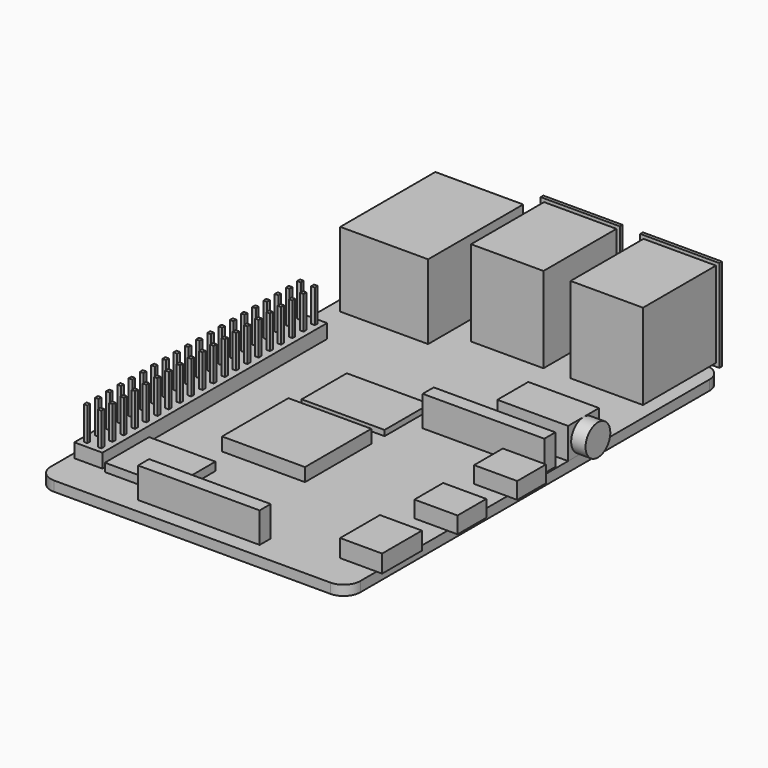
from build123d import *

# Parameters (mm, degrees)
CUBE_W         = 15
CUBE_H         = 15
CUBE_DEPTH     = 2.4
CUBE001_W      = 15
CUBE001_H      = 10.2
CUBE001_DEPTH  = 1
CUBE002_W      = 12
CUBE002_H      = 10
CUBE002_DEPTH  = 1.5
CUBE003_W      = 22
CUBE003_H      = 2.5
CUBE003_DEPTH  = 5.5
CUBE004_W      = 22
CUBE004_H      = 2.5
CUBE004_DEPTH  = 5.5
CUBE048_W      = 0.65
CUBE048_H      = 0.65
CUBE048_DEPTH  = 11.54
CUBE047_W      = 2.54
CUBE047_H      = 2.54
CUBE047_DEPTH  = 2.54
CUBE050_W      = 0.65
CUBE050_H      = 0.65
CUBE050_DEPTH  = 11.54
CUBE049_W      = 2.54
CUBE049_H      = 2.54
CUBE049_DEPTH  = 2.54
CUBE052_W      = 0.65
CUBE052_H      = 0.65
CUBE052_DEPTH  = 11.54
CUBE051_W      = 2.54
CUBE051_H      = 2.54
CUBE051_DEPTH  = 2.54
CUBE054_W      = 0.65
CUBE054_H      = 0.65
CUBE054_DEPTH  = 11.54
CUBE053_W      = 2.54
CUBE053_H      = 2.54
CUBE053_DEPTH  = 2.54
CUBE056_W      = 0.65
CUBE056_H      = 0.65
CUBE056_DEPTH  = 11.54
CUBE055_W      = 2.54
CUBE055_H      = 2.54
CUBE055_DEPTH  = 2.54
CUBE058_W      = 0.65
CUBE058_H      = 0.65
CUBE058_DEPTH  = 11.54
CUBE057_W      = 2.54
CUBE057_H      = 2.54
CUBE057_DEPTH  = 2.54
CUBE060_W      = 0.65
CUBE060_H      = 0.65
CUBE060_DEPTH  = 11.54
CUBE059_W      = 2.54
CUBE059_H      = 2.54
CUBE059_DEPTH  = 2.54
CUBE062_W      = 0.65
CUBE062_H      = 0.65
CUBE062_DEPTH  = 11.54
CUBE061_W      = 2.54
CUBE061_H      = 2.54
CUBE061_DEPTH  = 2.54
CUBE064_W      = 0.65
CUBE064_H      = 0.65
CUBE064_DEPTH  = 11.54
CUBE063_W      = 2.54
CUBE063_H      = 2.54
CUBE063_DEPTH  = 2.54
CUBE066_W      = 0.65
CUBE066_H      = 0.65
CUBE066_DEPTH  = 11.54
CUBE065_W      = 2.54
CUBE065_H      = 2.54
CUBE065_DEPTH  = 2.54
CUBE068_W      = 0.65
CUBE068_H      = 0.65
CUBE068_DEPTH  = 11.54
CUBE067_W      = 2.54
CUBE067_H      = 2.54
CUBE067_DEPTH  = 2.54
CUBE070_W      = 0.65
CUBE070_H      = 0.65
CUBE070_DEPTH  = 11.54
CUBE069_W      = 2.54
CUBE069_H      = 2.54
CUBE069_DEPTH  = 2.54
CUBE072_W      = 0.65
CUBE072_H      = 0.65
CUBE072_DEPTH  = 11.54
CUBE071_W      = 2.54
CUBE071_H      = 2.54
CUBE071_DEPTH  = 2.54
CUBE074_W      = 0.65
CUBE074_H      = 0.65
CUBE074_DEPTH  = 11.54
CUBE073_W      = 2.54
CUBE073_H      = 2.54
CUBE073_DEPTH  = 2.54
CUBE076_W      = 0.65
CUBE076_H      = 0.65
CUBE076_DEPTH  = 11.54
CUBE075_W      = 2.54
CUBE075_H      = 2.54
CUBE075_DEPTH  = 2.54
CUBE078_W      = 0.65
CUBE078_H      = 0.65
CUBE078_DEPTH  = 11.54
CUBE077_W      = 2.54
CUBE077_H      = 2.54
CUBE077_DEPTH  = 2.54
CUBE080_W      = 0.65
CUBE080_H      = 0.65
CUBE080_DEPTH  = 11.54
CUBE079_W      = 2.54
CUBE079_H      = 2.54
CUBE079_DEPTH  = 2.54
CUBE082_W      = 0.65
CUBE082_H      = 0.65
CUBE082_DEPTH  = 11.54
CUBE081_W      = 2.54
CUBE081_H      = 2.54
CUBE081_DEPTH  = 2.54
CUBE084_W      = 0.65
CUBE084_H      = 0.65
CUBE084_DEPTH  = 11.54
CUBE083_W      = 2.54
CUBE083_H      = 2.54
CUBE083_DEPTH  = 2.54
CUBE046_W      = 0.65
CUBE046_H      = 0.65
CUBE046_DEPTH  = 11.54
CUBE045_W      = 2.54
CUBE045_H      = 2.54
CUBE045_DEPTH  = 2.54
CUBE008_W      = 0.65
CUBE008_H      = 0.65
CUBE008_DEPTH  = 11.54
CUBE007_W      = 2.54
CUBE007_H      = 2.54
CUBE007_DEPTH  = 2.54
CUBE010_W      = 0.65
CUBE010_H      = 0.65
CUBE010_DEPTH  = 11.54
CUBE009_W      = 2.54
CUBE009_H      = 2.54
CUBE009_DEPTH  = 2.54
CUBE012_W      = 0.65
CUBE012_H      = 0.65
CUBE012_DEPTH  = 11.54
CUBE011_W      = 2.54
CUBE011_H      = 2.54
CUBE011_DEPTH  = 2.54
CUBE014_W      = 0.65
CUBE014_H      = 0.65
CUBE014_DEPTH  = 11.54
CUBE013_W      = 2.54
CUBE013_H      = 2.54
CUBE013_DEPTH  = 2.54
CUBE016_W      = 0.65
CUBE016_H      = 0.65
CUBE016_DEPTH  = 11.54
CUBE015_W      = 2.54
CUBE015_H      = 2.54
CUBE015_DEPTH  = 2.54
CUBE018_W      = 0.65
CUBE018_H      = 0.65
CUBE018_DEPTH  = 11.54
CUBE017_W      = 2.54
CUBE017_H      = 2.54
CUBE017_DEPTH  = 2.54
CUBE020_W      = 0.65
CUBE020_H      = 0.65
CUBE020_DEPTH  = 11.54
CUBE019_W      = 2.54
CUBE019_H      = 2.54
CUBE019_DEPTH  = 2.54
CUBE022_W      = 0.65
CUBE022_H      = 0.65
CUBE022_DEPTH  = 11.54
CUBE021_W      = 2.54
CUBE021_H      = 2.54
CUBE021_DEPTH  = 2.54
CUBE024_W      = 0.65
CUBE024_H      = 0.65
CUBE024_DEPTH  = 11.54
CUBE023_W      = 2.54
CUBE023_H      = 2.54
CUBE023_DEPTH  = 2.54
CUBE026_W      = 0.65
CUBE026_H      = 0.65
CUBE026_DEPTH  = 11.54
CUBE025_W      = 2.54
CUBE025_H      = 2.54
CUBE025_DEPTH  = 2.54
CUBE028_W      = 0.65
CUBE028_H      = 0.65
CUBE028_DEPTH  = 11.54
CUBE027_W      = 2.54
CUBE027_H      = 2.54
CUBE027_DEPTH  = 2.54
CUBE030_W      = 0.65
CUBE030_H      = 0.65
CUBE030_DEPTH  = 11.54
CUBE029_W      = 2.54
CUBE029_H      = 2.54
CUBE029_DEPTH  = 2.54
CUBE032_W      = 0.65
CUBE032_H      = 0.65
CUBE032_DEPTH  = 11.54
CUBE031_W      = 2.54
CUBE031_H      = 2.54
CUBE031_DEPTH  = 2.54
CUBE034_W      = 0.65
CUBE034_H      = 0.65
CUBE034_DEPTH  = 11.54
CUBE033_W      = 2.54
CUBE033_H      = 2.54
CUBE033_DEPTH  = 2.54
CUBE036_W      = 0.65
CUBE036_H      = 0.65
CUBE036_DEPTH  = 11.54
CUBE035_W      = 2.54
CUBE035_H      = 2.54
CUBE035_DEPTH  = 2.54
CUBE038_W      = 0.65
CUBE038_H      = 0.65
CUBE038_DEPTH  = 11.54
CUBE037_W      = 2.54
CUBE037_H      = 2.54
CUBE037_DEPTH  = 2.54
CUBE040_W      = 0.65
CUBE040_H      = 0.65
CUBE040_DEPTH  = 11.54
CUBE039_W      = 2.54
CUBE039_H      = 2.54
CUBE039_DEPTH  = 2.54
CUBE042_W      = 0.65
CUBE042_H      = 0.65
CUBE042_DEPTH  = 11.54
CUBE041_W      = 2.54
CUBE041_H      = 2.54
CUBE041_DEPTH  = 2.54
CUBE044_W      = 0.65
CUBE044_H      = 0.65
CUBE044_DEPTH  = 11.54
CUBE043_W      = 2.54
CUBE043_H      = 2.54
CUBE043_DEPTH  = 2.54
CUBE006_W      = 0.65
CUBE006_H      = 0.65
CUBE006_DEPTH  = 11.54
CUBE005_W      = 2.54
CUBE005_H      = 2.54
CUBE005_DEPTH  = 2.54
CUBE085_W      = 15.9
CUBE085_H      = 21.5
CUBE085_DEPTH  = 13.5
CUBE087_W      = 14.3
CUBE087_H      = 0.6
CUBE087_DEPTH  = 16.7
CUBE086_W      = 13.1
CUBE086_H      = 17.1
CUBE086_DEPTH  = 15.5
CUBE089_W      = 14.3
CUBE089_H      = 0.6
CUBE089_DEPTH  = 16.7
CUBE088_W      = 13.1
CUBE088_H      = 17.1
CUBE088_DEPTH  = 15.5
CUBE090_W      = 7.8
CUBE090_H      = 6.5
CUBE090_DEPTH  = 3
CUBE091_W      = 7.8
CUBE091_H      = 6.5
CUBE091_DEPTH  = 3
CYLINDER_R     = 2.8
CYLINDER_DEPTH = 2.6
CUBE092_W      = 12.8
CUBE092_H      = 7
CUBE092_DEPTH  = 5.6
CUBE093_W      = 7.6
CUBE093_H      = 9
CUBE093_DEPTH  = 3.2
PAD_DEPTH      = 1.8


with BuildPart() as cube:
    # cube → cube (new body)
    with BuildSketch(Plane(origin=(16, 21.75, 0), x_dir=(1, 0, 0), z_dir=(0, 0, 1))):
        with Locations((7.5, 7.5)):
            Rectangle(CUBE_W, CUBE_H)
    extrude(amount=CUBE_DEPTH)


with BuildPart() as cube001:
    # cube001 → cube001 (new body)
    with BuildSketch(Plane(origin=(16, 39.75, 0), x_dir=(1, 0, 0), z_dir=(0, 0, 1))):
        with Locations((7.5, 5.1)):
            Rectangle(CUBE001_W, CUBE001_H)
    extrude(amount=CUBE001_DEPTH)


with BuildPart() as cube002:
    # cube002 → cube002 (new body)
    with BuildSketch(Plane(origin=(7, 6.5, 0), x_dir=(1, 0, 0), z_dir=(0, 0, 1))):
        with Locations((6, 5)):
            Rectangle(CUBE002_W, CUBE002_H)
    extrude(amount=CUBE002_DEPTH)


with BuildPart() as cube003:
    # cube003 → cube003 (new body)
    with BuildSketch(Plane(origin=(16, 2.75, 0), x_dir=(1, 0, 0), z_dir=(0, 0, 1))):
        with Locations((11, 1.25)):
            Rectangle(CUBE003_W, CUBE003_H)
    extrude(amount=CUBE003_DEPTH)


with BuildPart() as cube004:
    # cube004 → cube004 (new body)
    with BuildSketch(Plane(origin=(33.7, 45, 0), x_dir=(1, 0, 0), z_dir=(0, 0, 1))):
        with Locations((11, 1.25)):
            Rectangle(CUBE004_W, CUBE004_H)
    extrude(amount=CUBE004_DEPTH)


with BuildPart() as cube048:
    # cube048 → cube048 (new body)
    with BuildSketch(Plane(origin=(0.945, 0.945, -3), x_dir=(1, 0, 0), z_dir=(0, 0, 1))):
        with Locations((0.325, 0.325)):
            Rectangle(CUBE048_W, CUBE048_H)
    extrude(amount=CUBE048_DEPTH)


with BuildPart() as union021:
    # cube047 → cube047 (new body)
    with BuildSketch(Plane.XY):
        with Locations((1.27, 1.27)):
            Rectangle(CUBE047_W, CUBE047_H)
    extrude(amount=CUBE047_DEPTH)

    # union021: union cube048
    add(cube048.part)


with BuildPart() as union021_1:
    # union021 placement: moved
    add(union021.part.moved(Location((2.54, 2.54, 0))))


with BuildPart() as cube050:
    # cube050 → cube050 (new body)
    with BuildSketch(Plane(origin=(0.945, 0.945, -3), x_dir=(1, 0, 0), z_dir=(0, 0, 1))):
        with Locations((0.325, 0.325)):
            Rectangle(CUBE050_W, CUBE050_H)
    extrude(amount=CUBE050_DEPTH)


with BuildPart() as union022:
    # cube049 → cube049 (new body)
    with BuildSketch(Plane.XY):
        with Locations((1.27, 1.27)):
            Rectangle(CUBE049_W, CUBE049_H)
    extrude(amount=CUBE049_DEPTH)

    # union022: union cube050
    add(cube050.part)


with BuildPart() as union022_1:
    # union022 placement: moved
    add(union022.part.moved(Location((2.54, 5.08, 0))))


with BuildPart() as cube052:
    # cube052 → cube052 (new body)
    with BuildSketch(Plane(origin=(0.945, 0.945, -3), x_dir=(1, 0, 0), z_dir=(0, 0, 1))):
        with Locations((0.325, 0.325)):
            Rectangle(CUBE052_W, CUBE052_H)
    extrude(amount=CUBE052_DEPTH)


with BuildPart() as union023:
    # cube051 → cube051 (new body)
    with BuildSketch(Plane.XY):
        with Locations((1.27, 1.27)):
            Rectangle(CUBE051_W, CUBE051_H)
    extrude(amount=CUBE051_DEPTH)

    # union023: union cube052
    add(cube052.part)


with BuildPart() as union023_1:
    # union023 placement: moved
    add(union023.part.moved(Location((2.54, 7.62, 0))))


with BuildPart() as cube054:
    # cube054 → cube054 (new body)
    with BuildSketch(Plane(origin=(0.945, 0.945, -3), x_dir=(1, 0, 0), z_dir=(0, 0, 1))):
        with Locations((0.325, 0.325)):
            Rectangle(CUBE054_W, CUBE054_H)
    extrude(amount=CUBE054_DEPTH)


with BuildPart() as union024:
    # cube053 → cube053 (new body)
    with BuildSketch(Plane.XY):
        with Locations((1.27, 1.27)):
            Rectangle(CUBE053_W, CUBE053_H)
    extrude(amount=CUBE053_DEPTH)

    # union024: union cube054
    add(cube054.part)


with BuildPart() as union024_1:
    # union024 placement: moved
    add(union024.part.moved(Location((2.54, 10.16, 0))))


with BuildPart() as cube056:
    # cube056 → cube056 (new body)
    with BuildSketch(Plane(origin=(0.945, 0.945, -3), x_dir=(1, 0, 0), z_dir=(0, 0, 1))):
        with Locations((0.325, 0.325)):
            Rectangle(CUBE056_W, CUBE056_H)
    extrude(amount=CUBE056_DEPTH)


with BuildPart() as union025:
    # cube055 → cube055 (new body)
    with BuildSketch(Plane.XY):
        with Locations((1.27, 1.27)):
            Rectangle(CUBE055_W, CUBE055_H)
    extrude(amount=CUBE055_DEPTH)

    # union025: union cube056
    add(cube056.part)


with BuildPart() as union025_1:
    # union025 placement: moved
    add(union025.part.moved(Location((2.54, 12.7, 0))))


with BuildPart() as cube058:
    # cube058 → cube058 (new body)
    with BuildSketch(Plane(origin=(0.945, 0.945, -3), x_dir=(1, 0, 0), z_dir=(0, 0, 1))):
        with Locations((0.325, 0.325)):
            Rectangle(CUBE058_W, CUBE058_H)
    extrude(amount=CUBE058_DEPTH)


with BuildPart() as union026:
    # cube057 → cube057 (new body)
    with BuildSketch(Plane.XY):
        with Locations((1.27, 1.27)):
            Rectangle(CUBE057_W, CUBE057_H)
    extrude(amount=CUBE057_DEPTH)

    # union026: union cube058
    add(cube058.part)


with BuildPart() as union026_1:
    # union026 placement: moved
    add(union026.part.moved(Location((2.54, 15.24, 0))))


with BuildPart() as cube060:
    # cube060 → cube060 (new body)
    with BuildSketch(Plane(origin=(0.945, 0.945, -3), x_dir=(1, 0, 0), z_dir=(0, 0, 1))):
        with Locations((0.325, 0.325)):
            Rectangle(CUBE060_W, CUBE060_H)
    extrude(amount=CUBE060_DEPTH)


with BuildPart() as union027:
    # cube059 → cube059 (new body)
    with BuildSketch(Plane.XY):
        with Locations((1.27, 1.27)):
            Rectangle(CUBE059_W, CUBE059_H)
    extrude(amount=CUBE059_DEPTH)

    # union027: union cube060
    add(cube060.part)


with BuildPart() as union027_1:
    # union027 placement: moved
    add(union027.part.moved(Location((2.54, 17.78, 0))))


with BuildPart() as cube062:
    # cube062 → cube062 (new body)
    with BuildSketch(Plane(origin=(0.945, 0.945, -3), x_dir=(1, 0, 0), z_dir=(0, 0, 1))):
        with Locations((0.325, 0.325)):
            Rectangle(CUBE062_W, CUBE062_H)
    extrude(amount=CUBE062_DEPTH)


with BuildPart() as union028:
    # cube061 → cube061 (new body)
    with BuildSketch(Plane.XY):
        with Locations((1.27, 1.27)):
            Rectangle(CUBE061_W, CUBE061_H)
    extrude(amount=CUBE061_DEPTH)

    # union028: union cube062
    add(cube062.part)


with BuildPart() as union028_1:
    # union028 placement: moved
    add(union028.part.moved(Location((2.54, 20.32, 0))))


with BuildPart() as cube064:
    # cube064 → cube064 (new body)
    with BuildSketch(Plane(origin=(0.945, 0.945, -3), x_dir=(1, 0, 0), z_dir=(0, 0, 1))):
        with Locations((0.325, 0.325)):
            Rectangle(CUBE064_W, CUBE064_H)
    extrude(amount=CUBE064_DEPTH)


with BuildPart() as union029:
    # cube063 → cube063 (new body)
    with BuildSketch(Plane.XY):
        with Locations((1.27, 1.27)):
            Rectangle(CUBE063_W, CUBE063_H)
    extrude(amount=CUBE063_DEPTH)

    # union029: union cube064
    add(cube064.part)


with BuildPart() as union029_1:
    # union029 placement: moved
    add(union029.part.moved(Location((2.54, 22.86, 0))))


with BuildPart() as cube066:
    # cube066 → cube066 (new body)
    with BuildSketch(Plane(origin=(0.945, 0.945, -3), x_dir=(1, 0, 0), z_dir=(0, 0, 1))):
        with Locations((0.325, 0.325)):
            Rectangle(CUBE066_W, CUBE066_H)
    extrude(amount=CUBE066_DEPTH)


with BuildPart() as union030:
    # cube065 → cube065 (new body)
    with BuildSketch(Plane.XY):
        with Locations((1.27, 1.27)):
            Rectangle(CUBE065_W, CUBE065_H)
    extrude(amount=CUBE065_DEPTH)

    # union030: union cube066
    add(cube066.part)


with BuildPart() as union030_1:
    # union030 placement: moved
    add(union030.part.moved(Location((2.54, 25.4, 0))))


with BuildPart() as cube068:
    # cube068 → cube068 (new body)
    with BuildSketch(Plane(origin=(0.945, 0.945, -3), x_dir=(1, 0, 0), z_dir=(0, 0, 1))):
        with Locations((0.325, 0.325)):
            Rectangle(CUBE068_W, CUBE068_H)
    extrude(amount=CUBE068_DEPTH)


with BuildPart() as union031:
    # cube067 → cube067 (new body)
    with BuildSketch(Plane.XY):
        with Locations((1.27, 1.27)):
            Rectangle(CUBE067_W, CUBE067_H)
    extrude(amount=CUBE067_DEPTH)

    # union031: union cube068
    add(cube068.part)


with BuildPart() as union031_1:
    # union031 placement: moved
    add(union031.part.moved(Location((2.54, 27.94, 0))))


with BuildPart() as cube070:
    # cube070 → cube070 (new body)
    with BuildSketch(Plane(origin=(0.945, 0.945, -3), x_dir=(1, 0, 0), z_dir=(0, 0, 1))):
        with Locations((0.325, 0.325)):
            Rectangle(CUBE070_W, CUBE070_H)
    extrude(amount=CUBE070_DEPTH)


with BuildPart() as union032:
    # cube069 → cube069 (new body)
    with BuildSketch(Plane.XY):
        with Locations((1.27, 1.27)):
            Rectangle(CUBE069_W, CUBE069_H)
    extrude(amount=CUBE069_DEPTH)

    # union032: union cube070
    add(cube070.part)


with BuildPart() as union032_1:
    # union032 placement: moved
    add(union032.part.moved(Location((2.54, 30.48, 0))))


with BuildPart() as cube072:
    # cube072 → cube072 (new body)
    with BuildSketch(Plane(origin=(0.945, 0.945, -3), x_dir=(1, 0, 0), z_dir=(0, 0, 1))):
        with Locations((0.325, 0.325)):
            Rectangle(CUBE072_W, CUBE072_H)
    extrude(amount=CUBE072_DEPTH)


with BuildPart() as union033:
    # cube071 → cube071 (new body)
    with BuildSketch(Plane.XY):
        with Locations((1.27, 1.27)):
            Rectangle(CUBE071_W, CUBE071_H)
    extrude(amount=CUBE071_DEPTH)

    # union033: union cube072
    add(cube072.part)


with BuildPart() as union033_1:
    # union033 placement: moved
    add(union033.part.moved(Location((2.54, 33.02, 0))))


with BuildPart() as cube074:
    # cube074 → cube074 (new body)
    with BuildSketch(Plane(origin=(0.945, 0.945, -3), x_dir=(1, 0, 0), z_dir=(0, 0, 1))):
        with Locations((0.325, 0.325)):
            Rectangle(CUBE074_W, CUBE074_H)
    extrude(amount=CUBE074_DEPTH)


with BuildPart() as union034:
    # cube073 → cube073 (new body)
    with BuildSketch(Plane.XY):
        with Locations((1.27, 1.27)):
            Rectangle(CUBE073_W, CUBE073_H)
    extrude(amount=CUBE073_DEPTH)

    # union034: union cube074
    add(cube074.part)


with BuildPart() as union034_1:
    # union034 placement: moved
    add(union034.part.moved(Location((2.54, 35.56, 0))))


with BuildPart() as cube076:
    # cube076 → cube076 (new body)
    with BuildSketch(Plane(origin=(0.945, 0.945, -3), x_dir=(1, 0, 0), z_dir=(0, 0, 1))):
        with Locations((0.325, 0.325)):
            Rectangle(CUBE076_W, CUBE076_H)
    extrude(amount=CUBE076_DEPTH)


with BuildPart() as union035:
    # cube075 → cube075 (new body)
    with BuildSketch(Plane.XY):
        with Locations((1.27, 1.27)):
            Rectangle(CUBE075_W, CUBE075_H)
    extrude(amount=CUBE075_DEPTH)

    # union035: union cube076
    add(cube076.part)


with BuildPart() as union035_1:
    # union035 placement: moved
    add(union035.part.moved(Location((2.54, 38.1, 0))))


with BuildPart() as cube078:
    # cube078 → cube078 (new body)
    with BuildSketch(Plane(origin=(0.945, 0.945, -3), x_dir=(1, 0, 0), z_dir=(0, 0, 1))):
        with Locations((0.325, 0.325)):
            Rectangle(CUBE078_W, CUBE078_H)
    extrude(amount=CUBE078_DEPTH)


with BuildPart() as union036:
    # cube077 → cube077 (new body)
    with BuildSketch(Plane.XY):
        with Locations((1.27, 1.27)):
            Rectangle(CUBE077_W, CUBE077_H)
    extrude(amount=CUBE077_DEPTH)

    # union036: union cube078
    add(cube078.part)


with BuildPart() as union036_1:
    # union036 placement: moved
    add(union036.part.moved(Location((2.54, 40.64, 0))))


with BuildPart() as cube080:
    # cube080 → cube080 (new body)
    with BuildSketch(Plane(origin=(0.945, 0.945, -3), x_dir=(1, 0, 0), z_dir=(0, 0, 1))):
        with Locations((0.325, 0.325)):
            Rectangle(CUBE080_W, CUBE080_H)
    extrude(amount=CUBE080_DEPTH)


with BuildPart() as union037:
    # cube079 → cube079 (new body)
    with BuildSketch(Plane.XY):
        with Locations((1.27, 1.27)):
            Rectangle(CUBE079_W, CUBE079_H)
    extrude(amount=CUBE079_DEPTH)

    # union037: union cube080
    add(cube080.part)


with BuildPart() as union037_1:
    # union037 placement: moved
    add(union037.part.moved(Location((2.54, 43.18, 0))))


with BuildPart() as cube082:
    # cube082 → cube082 (new body)
    with BuildSketch(Plane(origin=(0.945, 0.945, -3), x_dir=(1, 0, 0), z_dir=(0, 0, 1))):
        with Locations((0.325, 0.325)):
            Rectangle(CUBE082_W, CUBE082_H)
    extrude(amount=CUBE082_DEPTH)


with BuildPart() as union038:
    # cube081 → cube081 (new body)
    with BuildSketch(Plane.XY):
        with Locations((1.27, 1.27)):
            Rectangle(CUBE081_W, CUBE081_H)
    extrude(amount=CUBE081_DEPTH)

    # union038: union cube082
    add(cube082.part)


with BuildPart() as union038_1:
    # union038 placement: moved
    add(union038.part.moved(Location((2.54, 45.72, 0))))


with BuildPart() as cube084:
    # cube084 → cube084 (new body)
    with BuildSketch(Plane(origin=(0.945, 0.945, -3), x_dir=(1, 0, 0), z_dir=(0, 0, 1))):
        with Locations((0.325, 0.325)):
            Rectangle(CUBE084_W, CUBE084_H)
    extrude(amount=CUBE084_DEPTH)


with BuildPart() as union039:
    # cube083 → cube083 (new body)
    with BuildSketch(Plane.XY):
        with Locations((1.27, 1.27)):
            Rectangle(CUBE083_W, CUBE083_H)
    extrude(amount=CUBE083_DEPTH)

    # union039: union cube084
    add(cube084.part)


with BuildPart() as union039_1:
    # union039 placement: moved
    add(union039.part.moved(Location((2.54, 48.26, 0))))


with BuildPart() as cube046:
    # cube046 → cube046 (new body)
    with BuildSketch(Plane(origin=(0.945, 0.945, -3), x_dir=(1, 0, 0), z_dir=(0, 0, 1))):
        with Locations((0.325, 0.325)):
            Rectangle(CUBE046_W, CUBE046_H)
    extrude(amount=CUBE046_DEPTH)


with BuildPart() as group001:
    # cube045 → cube045 (new body)
    with BuildSketch(Plane.XY):
        with Locations((1.27, 1.27)):
            Rectangle(CUBE045_W, CUBE045_H)
    extrude(amount=CUBE045_DEPTH)

    # union020: union cube046
    add(cube046.part)


with BuildPart() as group001_1:
    # union020 placement: moved
    add(group001.part.moved(Location((2.54, 0, 0))))

    # Group001: union union021, union022, union023, union024, union025, union026, union027, union028, union029, union030, union031, union032, union033, union034, union035, union036, union037, union038, union039
    add(union021_1.part)
    add(union022_1.part)
    add(union023_1.part)
    add(union024_1.part)
    add(union025_1.part)
    add(union026_1.part)
    add(union027_1.part)
    add(union028_1.part)
    add(union029_1.part)
    add(union030_1.part)
    add(union031_1.part)
    add(union032_1.part)
    add(union033_1.part)
    add(union034_1.part)
    add(union035_1.part)
    add(union036_1.part)
    add(union037_1.part)
    add(union038_1.part)
    add(union039_1.part)


with BuildPart() as cube008:
    # cube008 → cube008 (new body)
    with BuildSketch(Plane(origin=(0.945, 0.945, -3), x_dir=(1, 0, 0), z_dir=(0, 0, 1))):
        with Locations((0.325, 0.325)):
            Rectangle(CUBE008_W, CUBE008_H)
    extrude(amount=CUBE008_DEPTH)


with BuildPart() as union001:
    # cube007 → cube007 (new body)
    with BuildSketch(Plane.XY):
        with Locations((1.27, 1.27)):
            Rectangle(CUBE007_W, CUBE007_H)
    extrude(amount=CUBE007_DEPTH)

    # union001: union cube008
    add(cube008.part)


with BuildPart() as union001_1:
    # union001 placement: moved
    add(union001.part.moved(Location((0, 2.54, 0))))


with BuildPart() as cube010:
    # cube010 → cube010 (new body)
    with BuildSketch(Plane(origin=(0.945, 0.945, -3), x_dir=(1, 0, 0), z_dir=(0, 0, 1))):
        with Locations((0.325, 0.325)):
            Rectangle(CUBE010_W, CUBE010_H)
    extrude(amount=CUBE010_DEPTH)


with BuildPart() as union002:
    # cube009 → cube009 (new body)
    with BuildSketch(Plane.XY):
        with Locations((1.27, 1.27)):
            Rectangle(CUBE009_W, CUBE009_H)
    extrude(amount=CUBE009_DEPTH)

    # union002: union cube010
    add(cube010.part)


with BuildPart() as union002_1:
    # union002 placement: moved
    add(union002.part.moved(Location((0, 5.08, 0))))


with BuildPart() as cube012:
    # cube012 → cube012 (new body)
    with BuildSketch(Plane(origin=(0.945, 0.945, -3), x_dir=(1, 0, 0), z_dir=(0, 0, 1))):
        with Locations((0.325, 0.325)):
            Rectangle(CUBE012_W, CUBE012_H)
    extrude(amount=CUBE012_DEPTH)


with BuildPart() as union003:
    # cube011 → cube011 (new body)
    with BuildSketch(Plane.XY):
        with Locations((1.27, 1.27)):
            Rectangle(CUBE011_W, CUBE011_H)
    extrude(amount=CUBE011_DEPTH)

    # union003: union cube012
    add(cube012.part)


with BuildPart() as union003_1:
    # union003 placement: moved
    add(union003.part.moved(Location((0, 7.62, 0))))


with BuildPart() as cube014:
    # cube014 → cube014 (new body)
    with BuildSketch(Plane(origin=(0.945, 0.945, -3), x_dir=(1, 0, 0), z_dir=(0, 0, 1))):
        with Locations((0.325, 0.325)):
            Rectangle(CUBE014_W, CUBE014_H)
    extrude(amount=CUBE014_DEPTH)


with BuildPart() as union004:
    # cube013 → cube013 (new body)
    with BuildSketch(Plane.XY):
        with Locations((1.27, 1.27)):
            Rectangle(CUBE013_W, CUBE013_H)
    extrude(amount=CUBE013_DEPTH)

    # union004: union cube014
    add(cube014.part)


with BuildPart() as union004_1:
    # union004 placement: moved
    add(union004.part.moved(Location((0, 10.16, 0))))


with BuildPart() as cube016:
    # cube016 → cube016 (new body)
    with BuildSketch(Plane(origin=(0.945, 0.945, -3), x_dir=(1, 0, 0), z_dir=(0, 0, 1))):
        with Locations((0.325, 0.325)):
            Rectangle(CUBE016_W, CUBE016_H)
    extrude(amount=CUBE016_DEPTH)


with BuildPart() as union005:
    # cube015 → cube015 (new body)
    with BuildSketch(Plane.XY):
        with Locations((1.27, 1.27)):
            Rectangle(CUBE015_W, CUBE015_H)
    extrude(amount=CUBE015_DEPTH)

    # union005: union cube016
    add(cube016.part)


with BuildPart() as union005_1:
    # union005 placement: moved
    add(union005.part.moved(Location((0, 12.7, 0))))


with BuildPart() as cube018:
    # cube018 → cube018 (new body)
    with BuildSketch(Plane(origin=(0.945, 0.945, -3), x_dir=(1, 0, 0), z_dir=(0, 0, 1))):
        with Locations((0.325, 0.325)):
            Rectangle(CUBE018_W, CUBE018_H)
    extrude(amount=CUBE018_DEPTH)


with BuildPart() as union006:
    # cube017 → cube017 (new body)
    with BuildSketch(Plane.XY):
        with Locations((1.27, 1.27)):
            Rectangle(CUBE017_W, CUBE017_H)
    extrude(amount=CUBE017_DEPTH)

    # union006: union cube018
    add(cube018.part)


with BuildPart() as union006_1:
    # union006 placement: moved
    add(union006.part.moved(Location((0, 15.24, 0))))


with BuildPart() as cube020:
    # cube020 → cube020 (new body)
    with BuildSketch(Plane(origin=(0.945, 0.945, -3), x_dir=(1, 0, 0), z_dir=(0, 0, 1))):
        with Locations((0.325, 0.325)):
            Rectangle(CUBE020_W, CUBE020_H)
    extrude(amount=CUBE020_DEPTH)


with BuildPart() as union007:
    # cube019 → cube019 (new body)
    with BuildSketch(Plane.XY):
        with Locations((1.27, 1.27)):
            Rectangle(CUBE019_W, CUBE019_H)
    extrude(amount=CUBE019_DEPTH)

    # union007: union cube020
    add(cube020.part)


with BuildPart() as union007_1:
    # union007 placement: moved
    add(union007.part.moved(Location((0, 17.78, 0))))


with BuildPart() as cube022:
    # cube022 → cube022 (new body)
    with BuildSketch(Plane(origin=(0.945, 0.945, -3), x_dir=(1, 0, 0), z_dir=(0, 0, 1))):
        with Locations((0.325, 0.325)):
            Rectangle(CUBE022_W, CUBE022_H)
    extrude(amount=CUBE022_DEPTH)


with BuildPart() as union008:
    # cube021 → cube021 (new body)
    with BuildSketch(Plane.XY):
        with Locations((1.27, 1.27)):
            Rectangle(CUBE021_W, CUBE021_H)
    extrude(amount=CUBE021_DEPTH)

    # union008: union cube022
    add(cube022.part)


with BuildPart() as union008_1:
    # union008 placement: moved
    add(union008.part.moved(Location((0, 20.32, 0))))


with BuildPart() as cube024:
    # cube024 → cube024 (new body)
    with BuildSketch(Plane(origin=(0.945, 0.945, -3), x_dir=(1, 0, 0), z_dir=(0, 0, 1))):
        with Locations((0.325, 0.325)):
            Rectangle(CUBE024_W, CUBE024_H)
    extrude(amount=CUBE024_DEPTH)


with BuildPart() as union009:
    # cube023 → cube023 (new body)
    with BuildSketch(Plane.XY):
        with Locations((1.27, 1.27)):
            Rectangle(CUBE023_W, CUBE023_H)
    extrude(amount=CUBE023_DEPTH)

    # union009: union cube024
    add(cube024.part)


with BuildPart() as union009_1:
    # union009 placement: moved
    add(union009.part.moved(Location((0, 22.86, 0))))


with BuildPart() as cube026:
    # cube026 → cube026 (new body)
    with BuildSketch(Plane(origin=(0.945, 0.945, -3), x_dir=(1, 0, 0), z_dir=(0, 0, 1))):
        with Locations((0.325, 0.325)):
            Rectangle(CUBE026_W, CUBE026_H)
    extrude(amount=CUBE026_DEPTH)


with BuildPart() as union010:
    # cube025 → cube025 (new body)
    with BuildSketch(Plane.XY):
        with Locations((1.27, 1.27)):
            Rectangle(CUBE025_W, CUBE025_H)
    extrude(amount=CUBE025_DEPTH)

    # union010: union cube026
    add(cube026.part)


with BuildPart() as union010_1:
    # union010 placement: moved
    add(union010.part.moved(Location((0, 25.4, 0))))


with BuildPart() as cube028:
    # cube028 → cube028 (new body)
    with BuildSketch(Plane(origin=(0.945, 0.945, -3), x_dir=(1, 0, 0), z_dir=(0, 0, 1))):
        with Locations((0.325, 0.325)):
            Rectangle(CUBE028_W, CUBE028_H)
    extrude(amount=CUBE028_DEPTH)


with BuildPart() as union011:
    # cube027 → cube027 (new body)
    with BuildSketch(Plane.XY):
        with Locations((1.27, 1.27)):
            Rectangle(CUBE027_W, CUBE027_H)
    extrude(amount=CUBE027_DEPTH)

    # union011: union cube028
    add(cube028.part)


with BuildPart() as union011_1:
    # union011 placement: moved
    add(union011.part.moved(Location((0, 27.94, 0))))


with BuildPart() as cube030:
    # cube030 → cube030 (new body)
    with BuildSketch(Plane(origin=(0.945, 0.945, -3), x_dir=(1, 0, 0), z_dir=(0, 0, 1))):
        with Locations((0.325, 0.325)):
            Rectangle(CUBE030_W, CUBE030_H)
    extrude(amount=CUBE030_DEPTH)


with BuildPart() as union012:
    # cube029 → cube029 (new body)
    with BuildSketch(Plane.XY):
        with Locations((1.27, 1.27)):
            Rectangle(CUBE029_W, CUBE029_H)
    extrude(amount=CUBE029_DEPTH)

    # union012: union cube030
    add(cube030.part)


with BuildPart() as union012_1:
    # union012 placement: moved
    add(union012.part.moved(Location((0, 30.48, 0))))


with BuildPart() as cube032:
    # cube032 → cube032 (new body)
    with BuildSketch(Plane(origin=(0.945, 0.945, -3), x_dir=(1, 0, 0), z_dir=(0, 0, 1))):
        with Locations((0.325, 0.325)):
            Rectangle(CUBE032_W, CUBE032_H)
    extrude(amount=CUBE032_DEPTH)


with BuildPart() as union013:
    # cube031 → cube031 (new body)
    with BuildSketch(Plane.XY):
        with Locations((1.27, 1.27)):
            Rectangle(CUBE031_W, CUBE031_H)
    extrude(amount=CUBE031_DEPTH)

    # union013: union cube032
    add(cube032.part)


with BuildPart() as union013_1:
    # union013 placement: moved
    add(union013.part.moved(Location((0, 33.02, 0))))


with BuildPart() as cube034:
    # cube034 → cube034 (new body)
    with BuildSketch(Plane(origin=(0.945, 0.945, -3), x_dir=(1, 0, 0), z_dir=(0, 0, 1))):
        with Locations((0.325, 0.325)):
            Rectangle(CUBE034_W, CUBE034_H)
    extrude(amount=CUBE034_DEPTH)


with BuildPart() as union014:
    # cube033 → cube033 (new body)
    with BuildSketch(Plane.XY):
        with Locations((1.27, 1.27)):
            Rectangle(CUBE033_W, CUBE033_H)
    extrude(amount=CUBE033_DEPTH)

    # union014: union cube034
    add(cube034.part)


with BuildPart() as union014_1:
    # union014 placement: moved
    add(union014.part.moved(Location((0, 35.56, 0))))


with BuildPart() as cube036:
    # cube036 → cube036 (new body)
    with BuildSketch(Plane(origin=(0.945, 0.945, -3), x_dir=(1, 0, 0), z_dir=(0, 0, 1))):
        with Locations((0.325, 0.325)):
            Rectangle(CUBE036_W, CUBE036_H)
    extrude(amount=CUBE036_DEPTH)


with BuildPart() as union015:
    # cube035 → cube035 (new body)
    with BuildSketch(Plane.XY):
        with Locations((1.27, 1.27)):
            Rectangle(CUBE035_W, CUBE035_H)
    extrude(amount=CUBE035_DEPTH)

    # union015: union cube036
    add(cube036.part)


with BuildPart() as union015_1:
    # union015 placement: moved
    add(union015.part.moved(Location((0, 38.1, 0))))


with BuildPart() as cube038:
    # cube038 → cube038 (new body)
    with BuildSketch(Plane(origin=(0.945, 0.945, -3), x_dir=(1, 0, 0), z_dir=(0, 0, 1))):
        with Locations((0.325, 0.325)):
            Rectangle(CUBE038_W, CUBE038_H)
    extrude(amount=CUBE038_DEPTH)


with BuildPart() as union016:
    # cube037 → cube037 (new body)
    with BuildSketch(Plane.XY):
        with Locations((1.27, 1.27)):
            Rectangle(CUBE037_W, CUBE037_H)
    extrude(amount=CUBE037_DEPTH)

    # union016: union cube038
    add(cube038.part)


with BuildPart() as union016_1:
    # union016 placement: moved
    add(union016.part.moved(Location((0, 40.64, 0))))


with BuildPart() as cube040:
    # cube040 → cube040 (new body)
    with BuildSketch(Plane(origin=(0.945, 0.945, -3), x_dir=(1, 0, 0), z_dir=(0, 0, 1))):
        with Locations((0.325, 0.325)):
            Rectangle(CUBE040_W, CUBE040_H)
    extrude(amount=CUBE040_DEPTH)


with BuildPart() as union017:
    # cube039 → cube039 (new body)
    with BuildSketch(Plane.XY):
        with Locations((1.27, 1.27)):
            Rectangle(CUBE039_W, CUBE039_H)
    extrude(amount=CUBE039_DEPTH)

    # union017: union cube040
    add(cube040.part)


with BuildPart() as union017_1:
    # union017 placement: moved
    add(union017.part.moved(Location((0, 43.18, 0))))


with BuildPart() as cube042:
    # cube042 → cube042 (new body)
    with BuildSketch(Plane(origin=(0.945, 0.945, -3), x_dir=(1, 0, 0), z_dir=(0, 0, 1))):
        with Locations((0.325, 0.325)):
            Rectangle(CUBE042_W, CUBE042_H)
    extrude(amount=CUBE042_DEPTH)


with BuildPart() as union018:
    # cube041 → cube041 (new body)
    with BuildSketch(Plane.XY):
        with Locations((1.27, 1.27)):
            Rectangle(CUBE041_W, CUBE041_H)
    extrude(amount=CUBE041_DEPTH)

    # union018: union cube042
    add(cube042.part)


with BuildPart() as union018_1:
    # union018 placement: moved
    add(union018.part.moved(Location((0, 45.72, 0))))


with BuildPart() as cube044:
    # cube044 → cube044 (new body)
    with BuildSketch(Plane(origin=(0.945, 0.945, -3), x_dir=(1, 0, 0), z_dir=(0, 0, 1))):
        with Locations((0.325, 0.325)):
            Rectangle(CUBE044_W, CUBE044_H)
    extrude(amount=CUBE044_DEPTH)


with BuildPart() as union019:
    # cube043 → cube043 (new body)
    with BuildSketch(Plane.XY):
        with Locations((1.27, 1.27)):
            Rectangle(CUBE043_W, CUBE043_H)
    extrude(amount=CUBE043_DEPTH)

    # union019: union cube044
    add(cube044.part)


with BuildPart() as union019_1:
    # union019 placement: moved
    add(union019.part.moved(Location((0, 48.26, 0))))


with BuildPart() as cube006:
    # cube006 → cube006 (new body)
    with BuildSketch(Plane(origin=(0.945, 0.945, -3), x_dir=(1, 0, 0), z_dir=(0, 0, 1))):
        with Locations((0.325, 0.325)):
            Rectangle(CUBE006_W, CUBE006_H)
    extrude(amount=CUBE006_DEPTH)


with BuildPart() as group002:
    # cube005 → cube005 (new body)
    with BuildSketch(Plane.XY):
        with Locations((1.27, 1.27)):
            Rectangle(CUBE005_W, CUBE005_H)
    extrude(amount=CUBE005_DEPTH)

    # union: union cube006
    add(cube006.part)

    # Group: union union001, union002, union003, union004, union005, union006, union007, union008, union009, union010, union011, union012, union013, union014, union015, union016, union017, union018, union019
    add(union001_1.part)
    add(union002_1.part)
    add(union003_1.part)
    add(union004_1.part)
    add(union005_1.part)
    add(union006_1.part)
    add(union007_1.part)
    add(union008_1.part)
    add(union009_1.part)
    add(union010_1.part)
    add(union011_1.part)
    add(union012_1.part)
    add(union013_1.part)
    add(union014_1.part)
    add(union015_1.part)
    add(union016_1.part)
    add(union017_1.part)
    add(union018_1.part)
    add(union019_1.part)

    # Group002: union Group001
    add(group001_1.part)


with BuildPart() as group002_1:
    # Group002 placement: moved
    add(group002.part.moved(Location((1, 7.1, 0))))


with BuildPart() as cube085:
    # cube085 → cube085 (new body)
    with BuildSketch(Plane(origin=(2.3, 65.6, 0), x_dir=(1, 0, 0), z_dir=(0, 0, 1))):
        with Locations((7.95, 10.75)):
            Rectangle(CUBE085_W, CUBE085_H)
    extrude(amount=CUBE085_DEPTH)


with BuildPart() as cube087:
    # cube087 → cube087 (new body)
    with BuildSketch(Plane(origin=(-0.6, 16.5, -0.6), x_dir=(1, 0, 0), z_dir=(0, 0, 1))):
        with Locations((7.15, 0.3)):
            Rectangle(CUBE087_W, CUBE087_H)
    extrude(amount=CUBE087_DEPTH)


with BuildPart() as group003:
    # cube086 → cube086 (new body)
    with BuildSketch(Plane.XY):
        with Locations((6.55, 8.55)):
            Rectangle(CUBE086_W, CUBE086_H)
    extrude(amount=CUBE086_DEPTH)

    # Group003: union cube087
    add(cube087.part)


with BuildPart() as group003_1:
    # Group003 placement: moved
    add(group003.part.moved(Location((22.45, 70, 0))))


with BuildPart() as cube089:
    # cube089 → cube089 (new body)
    with BuildSketch(Plane(origin=(-0.6, 16.5, -0.6), x_dir=(1, 0, 0), z_dir=(0, 0, 1))):
        with Locations((7.15, 0.3)):
            Rectangle(CUBE089_W, CUBE089_H)
    extrude(amount=CUBE089_DEPTH)


with BuildPart() as group004:
    # cube088 → cube088 (new body)
    with BuildSketch(Plane.XY):
        with Locations((6.55, 8.55)):
            Rectangle(CUBE088_W, CUBE088_H)
    extrude(amount=CUBE088_DEPTH)

    # Group004: union cube089
    add(cube089.part)


with BuildPart() as group004_1:
    # Group004 placement: moved
    add(group004.part.moved(Location((40.45, 70, 0))))


with BuildPart() as cube090:
    # cube090 → cube090 (new body)
    with BuildSketch(Plane(origin=(50, 22.75, 0), x_dir=(1, 0, 0), z_dir=(0, 0, 1))):
        with Locations((3.9, 3.25)):
            Rectangle(CUBE090_W, CUBE090_H)
    extrude(amount=CUBE090_DEPTH)


with BuildPart() as cube091:
    # cube091 → cube091 (new body)
    with BuildSketch(Plane(origin=(50, 36.25, 0), x_dir=(1, 0, 0), z_dir=(0, 0, 1))):
        with Locations((3.9, 3.25)):
            Rectangle(CUBE091_W, CUBE091_H)
    extrude(amount=CUBE091_DEPTH)


with BuildPart() as cylinder:
    # cylinder → cylinder (new body)
    with BuildSketch(Plane(origin=(12.8, 3.5, 2.8), x_dir=(0, 0, -1), z_dir=(1, 0, 0))):
        Circle(CYLINDER_R)
    extrude(amount=CYLINDER_DEPTH)


with BuildPart() as group005:
    # cube092 → cube092 (new body)
    with BuildSketch(Plane.XY):
        with Locations((6.4, 3.5)):
            Rectangle(CUBE092_W, CUBE092_H)
    extrude(amount=CUBE092_DEPTH)

    # Group005: union cylinder
    add(cylinder.part)


with BuildPart() as group005_1:
    # Group005 placement: moved
    add(group005.part.moved(Location((43.2, 50, 0))))


with BuildPart() as cube093:
    # cube093 → cube093 (new body)
    with BuildSketch(Plane(origin=(49.4, 6.7, 0), x_dir=(1, 0, 0), z_dir=(0, 0, 1))):
        with Locations((3.8, 4.5)):
            Rectangle(CUBE093_W, CUBE093_H)
    extrude(amount=CUBE093_DEPTH)


with BuildPart() as body:
    # Sketch → Pad (new body)
    with BuildSketch(Plane.XY):
        with BuildLine():
            ThreePointArc((0, 3), (0.87868, 0.87868), (3, 0))
            Line((53, 0), (3, 0))
            ThreePointArc((53, 0), (55.12132, 0.87868), (56, 3))
            Line((56, 82), (56, 3))
            ThreePointArc((56, 82), (55.12132, 84.12132), (53, 85))
            Line((3, 85), (53, 85))
            ThreePointArc((3, 85), (0.87868, 84.12132), (0, 82))
            Line((0, 3), (0, 82))
        make_face()
    extrude(amount=-PAD_DEPTH)


solid = Compound([cube.part, cube001.part, cube002.part, cube003.part, cube004.part, group002_1.part, cube085.part, group003_1.part, group004_1.part, cube090.part, cube091.part, group005_1.part, cube093.part, body.part])
